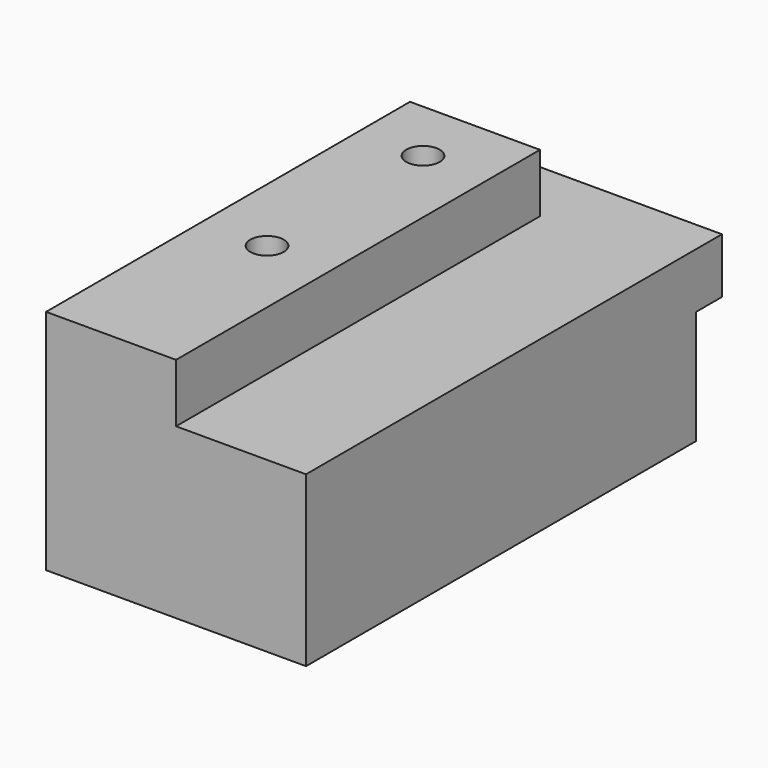
from build123d import *

# Parameters (mm, degrees)
F1_DEPTH = 101.6
F2_W     = 50.8
F2_H     = 22.225
F3_DEPTH = 6.35
F4_W     = 25.4
F4_H     = 12.7
F5_DEPTH = 11.43
F7_D     = 6.5278


with BuildPart() as f1:
    # F0 (on Front) → F1 (new body)
    with BuildSketch(Plane.XZ):
        Polygon((25.4, 0), (0, 0), (0, -44.45), (50.8, -44.45), (50.8, -11.43), (25.4, -11.43), align=None)
    extrude(amount=-F1_DEPTH)

    # F2 (on face) → F3 (cut)
    with BuildSketch(Plane(origin=(0, 101.6, 0), x_dir=(-1, 0, 0), z_dir=(0, 1, 0))):
        with Locations((-25.4, -33.3375)):
            Rectangle(F2_W, F2_H)
    extrude(amount=-F3_DEPTH, mode=Mode.SUBTRACT)

    # F4 (on face) → F5 (cut, through all)
    with BuildSketch(Plane.XY):
        with Locations((12.7, 95.25)):
            Rectangle(F4_W, F4_H)
    extrude(amount=-F5_DEPTH, mode=Mode.SUBTRACT)

    # F7 (through all)
    with Locations(Plane.XY):
        with Locations((12.7, 76.2), (12.7, 38.1)):
            Hole(F7_D / 2)


solid = f1.part
